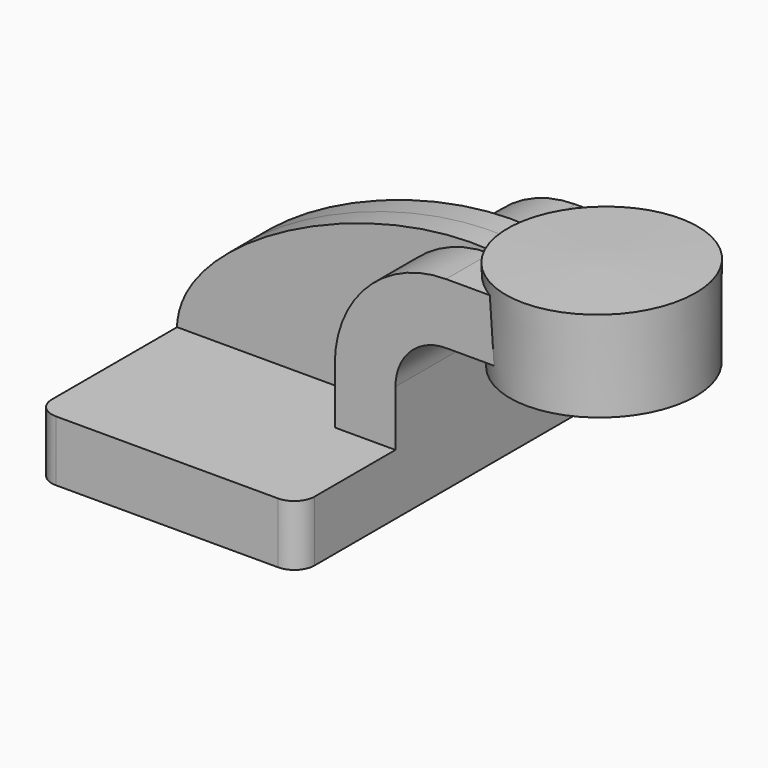
from build123d import *

# Parameters (mm, degrees)
F1_DEPTH = 63.5
F0_W     = 21.2541334692
F0_H     = 19.05
F2_DEPTH = 25.4
F3_DEPTH = 7.9375
F5_R     = 6.35


with BuildPart() as f1:
    # F0 (on Front) → F1 (new body, symmetric)
    with BuildSketch(Plane.XZ):
        Polygon((22.225, 9.525), (-41.275, 9.525), (-41.275, -9.525), (41.275, -9.525), (41.275, 9.525), align=None)
    extrude(amount=F1_DEPTH, both=True)

    # F0 (on Front) → F2 (join, symmetric)
    with BuildSketch(Plane.XZ):
        with Locations((75.0979332654, 52.4002)):
            Rectangle(F0_W, F0_H)
        with BuildLine():
            Line((22.225, 27.0002), (22.225, 9.525))
            Line((22.225, 9.525), (41.275, 9.525))
            Line((41.275, 9.525), (41.275, 27.0002))
            ThreePointArc((41.275, 27.0002), (45.9246798487, 38.2255201513), (57.15, 42.8752))
            Line((57.15, 42.8752), (64.4708665308, 42.8752))
            Line((64.4708665308, 42.8752), (64.4708665308, 61.9252))
            Line((64.4708665308, 61.9252), (57.15, 61.9252))
            ThreePointArc((57.15, 61.9252), (32.4542956671, 51.6959043329), (22.225, 27.0002))
        make_face()
    extrude(amount=F2_DEPTH, both=True)

    # F0 (on Front) → F3 (join, symmetric)
    with BuildSketch(Plane.XZ):
        with BuildLine():
            add(Edge.make_bspline(
                [(64.4708665308, 61.9252), (23.5755275935, 69.2807137966), (-40.8611632884, 37.480790168), (-41.275, 9.525)],
                knots=[0, 0, 0, 0, 118.0168176507, 118.0168176507, 118.0168176507, 118.0168176507], degree=3))
            Line((-41.275, 9.525), (22.225, 9.525))
            Line((22.225, 9.525), (22.225, 27.0002))
            ThreePointArc((22.225, 27.0002), (32.4542956671, 51.6959043329), (57.15, 61.9252))
            Line((57.15, 61.9252), (64.4708665308, 61.9252))
        make_face()
    extrude(amount=F3_DEPTH, both=True)

    # F0 (on Front) → F4 (revolve)
    with BuildSketch(Plane.XZ):
        Polygon((115.2708665308, 66.675), (85.725, 66.675), (86.3811299205, 38.1), (115.2708665308, 38.1), align=None)
    revolve(axis=Axis((86.0530649602, 0, 52.3875), (-0.0229556263, 0, 0.9997364849)))

    # F5
    f5_edges = [f1.edges().sort_by_distance(p)[0] for p in [
        (-41.275, -63.5, 0),
        (41.275, -63.5, 0),
        (41.275, 63.5, 0),
        (-41.275, 63.5, 0),
    ]]
    fillet(f5_edges, radius=F5_R)


solid = f1.part
